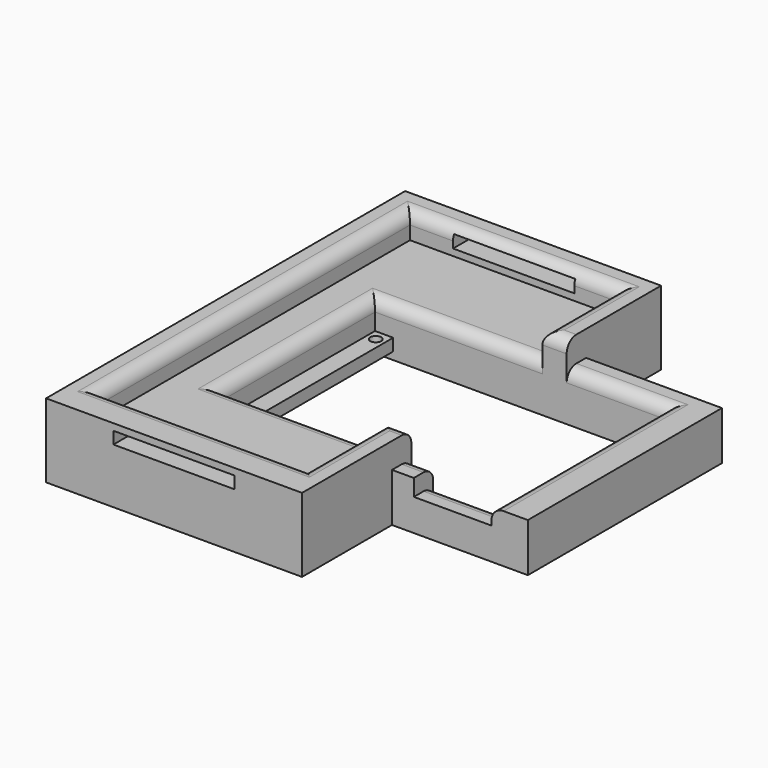
from build123d import *

# Parameters (mm, degrees)
F0_W      = 76.2
F0_H      = 50.8
F1_DEPTH  = 20.32
F2_W      = 60.96
F2_H      = 40.64
F3_DEPTH  = 17.272
F5_W      = 3.81
F5_H      = 40.64
F5_R      = 1.13665
F6_DEPTH  = 2.54
F8_W      = 16.256
F8_H      = 5.08
F9_DEPTH  = 3.4925
F11_DEPTH = 5.334
F13_DEPTH = 20.32
F14_R     = 2.54
F15_W     = 93.98
F15_H     = 10.16
F16_DEPTH = 82.042
F17_W     = 25.4
F17_H     = 2.54
F18_DEPTH = 93.98


with BuildPart() as f1:
    # F0 (on Top) → F1 (new body)
    with BuildSketch(Plane.XY):
        Rectangle(F0_W, F0_H)
    extrude(amount=F1_DEPTH)

    # F2 (on face) → F3 (cut)
    with BuildSketch(Plane.XY.offset(20.32)):
        Rectangle(F2_W, F2_H)
    extrude(amount=-F3_DEPTH, mode=Mode.SUBTRACT)

    # F5 (on offset) → F6 (join)
    with BuildSketch(Plane.XY.offset(11.7475)):
        with Locations((-28.575, 0)):
            Rectangle(F5_W, F5_H)
        with Locations((-28.575, -18.1356)):
            Circle(F5_R, mode=Mode.SUBTRACT)
        with Locations((-28.575, 18.1356)):
            Circle(F5_R, mode=Mode.SUBTRACT)
        with Locations((28.575, 0)):
            Rectangle(F5_W, F5_H)
        with Locations((28.575, -18.1356)):
            Circle(F5_R, mode=Mode.SUBTRACT)
        with Locations((28.575, 18.1356)):
            Circle(F5_R, mode=Mode.SUBTRACT)
    extrude(amount=F6_DEPTH)

    # F8 (on offset) → F9 (cut, through all)
    with BuildSketch(Plane.XY.offset(16.8275)):
        with Locations((22.352, -22.86)):
            Rectangle(F8_W, F8_H)
    extrude(amount=F9_DEPTH, mode=Mode.SUBTRACT)

    # F10 (on face) → F11 (join)
    with BuildSketch(Plane.XY.offset(20.32)):
        Polygon((-38.862, -41.3258), (-38.862, 39.9542), (4.572, 39.9542), (4.572, 20.32), (9.652, 20.32), (9.652, 45.0342), (-43.942, 45.0342), (-43.942, -48.9458), (9.652, -48.9458), (9.652, -20.32), (4.572, -20.32), (4.572, -41.3258), align=None)
    extrude(amount=F11_DEPTH)

    # F12 (on face) → F13 (join, through all)
    with BuildSketch(Plane(origin=(0, 0, 0), x_dir=(1, 0, 0), z_dir=(0, 0, -1))):
        Polygon((-43.942, 48.9458), (-43.942, -45.0342), (9.652, -45.0342), (9.652, -25.4), (-38.1, -25.4), (-38.1, 25.4), (9.652, 25.4), (9.652, 48.9458), align=None)
    extrude(amount=-F13_DEPTH)

    # F14
    f14_edges = [f1.edges().sort_by_distance(p)[0] for p in [
        (-12.954, 20.32, 20.32),
        (-30.48, 0, 20.32),
        (30.48, -2.54, 20.32),
        (-17.145, 39.9542, 25.654),
        (-38.862, -0.6858, 25.654),
        (-17.145, -41.3258, 25.654),
        (4.572, -30.8229, 25.654),
        (4.572, 30.1371, 25.654),
        (22.352, -20.32, 16.8275),
        (11.938, -20.32, 20.32),
        (-12.954, -20.32, 20.32),
        (20.066, 20.32, 20.32),
        (7.112, 20.32, 25.654),
        (7.112, -20.32, 25.654),
    ]]
    fillet(f14_edges, radius=F14_R)

    # F15 (on face) → F16 (cut, through all)
    with BuildSketch(Plane.YZ.offset(38.1)):
        with Locations((-1.9558, 5.08)):
            Rectangle(F15_W, F15_H)
    extrude(amount=-F16_DEPTH, mode=Mode.SUBTRACT)

    # F17 (on face) → F18 (cut, through all)
    with BuildSketch(Plane.XZ.offset(48.9458)):
        with Locations((-17.145, 22.987)):
            Rectangle(F17_W, F17_H)
    extrude(amount=-F18_DEPTH, mode=Mode.SUBTRACT)


solid = f1.part
